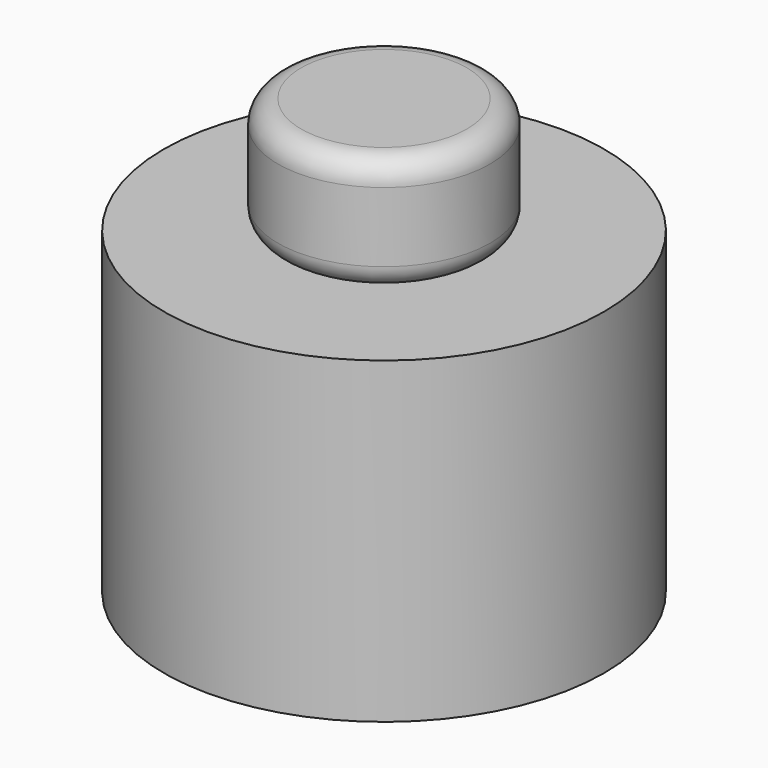
from build123d import *

# Parameters (mm, degrees)
F0_R     = 23.208825
F1_DEPTH = 25.4
F2_R     = 5.08
F3_R     = 48.138061
F4_DEPTH = 69.56518


with BuildPart() as f1:
    # F0 (on Top) → F1 (new body)
    with BuildSketch(Plane.XY):
        Circle(F0_R)
    extrude(amount=F1_DEPTH)

    # F2
    f2_edges = [f1.edges().sort_by_distance(p)[0] for p in [
        (-23.208825, 0, 0),
        (-23.208825, 0, 25.4),
    ]]
    fillet(f2_edges, radius=F2_R)

    # F3 (on face) → F4 (join)
    with BuildSketch(Plane(origin=(0, 0, 0), x_dir=(1, 0, 0), z_dir=(0, 0, -1))):
        Circle(F3_R)
    extrude(amount=F4_DEPTH)


solid = f1.part
